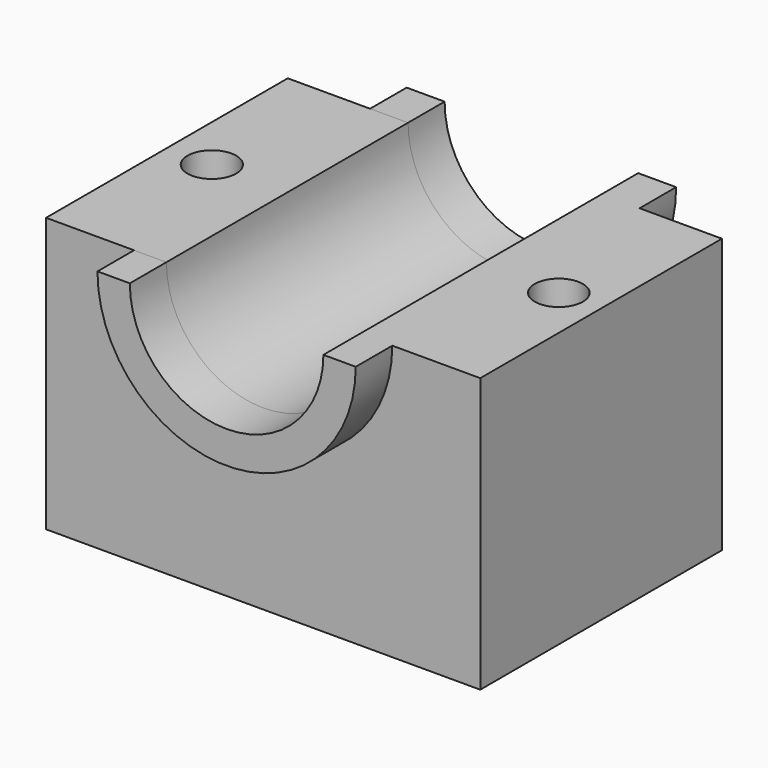
from build123d import *

# Parameters (mm, degrees)
F0_W     = 120.626696
F0_H     = 83.924868
F0_R     = 6.75531
F0_R_2   = 6.692983
F1_DEPTH = 76.2
F2_R     = 26.889351
F3_DEPTH = 101.6
F5_DEPTH = 12.7
F7_DEPTH = 12.7


with BuildPart() as f1:
    # F0 (on Top) → F1 (new body)
    with BuildSketch(Plane.XY):
        Rectangle(F0_W, F0_H)
        with Locations((-47.834724, 0)):
            Circle(F0_R, mode=Mode.SUBTRACT)
        with Locations((48.568763, 0)):
            Circle(F0_R_2, mode=Mode.SUBTRACT)
    extrude(amount=F1_DEPTH)

    # F2 (on face) → F3 (cut)
    with BuildSketch(Plane.XZ.offset(41.962434)):
        with Locations((0, 76.2)):
            Circle(F2_R)
    extrude(amount=-F3_DEPTH, mode=Mode.SUBTRACT)

    # F4 (on face) → F5 (join)
    with BuildSketch(Plane.XZ.offset(41.962434)):
        with BuildLine():
            Line((-26.889351, 76.2), (-35.875045, 76.2))
            ThreePointArc((-35.875045, 76.2), (0, 40.324955), (35.875045, 76.2))
            Line((35.875045, 76.2), (26.889351, 76.2))
            ThreePointArc((26.889351, 76.2), (0, 49.310649), (-26.889351, 76.2))
        make_face()
    extrude(amount=F5_DEPTH)

    # F6 (on face) → F7 (join)
    with BuildSketch(Plane(origin=(0, 41.962434, 0), x_dir=(-1, 0, 0), z_dir=(0, 1, 0))):
        with BuildLine():
            Line((-26.889351, 76.2), (-37.436254, 76.2))
            ThreePointArc((-37.436254, 76.2), (0, 38.763746), (37.436254, 76.2))
            Line((37.436254, 76.2), (26.889351, 76.2))
            ThreePointArc((26.889351, 76.2), (0, 49.310649), (-26.889351, 76.2))
        make_face()
    extrude(amount=F7_DEPTH)


solid = f1.part
